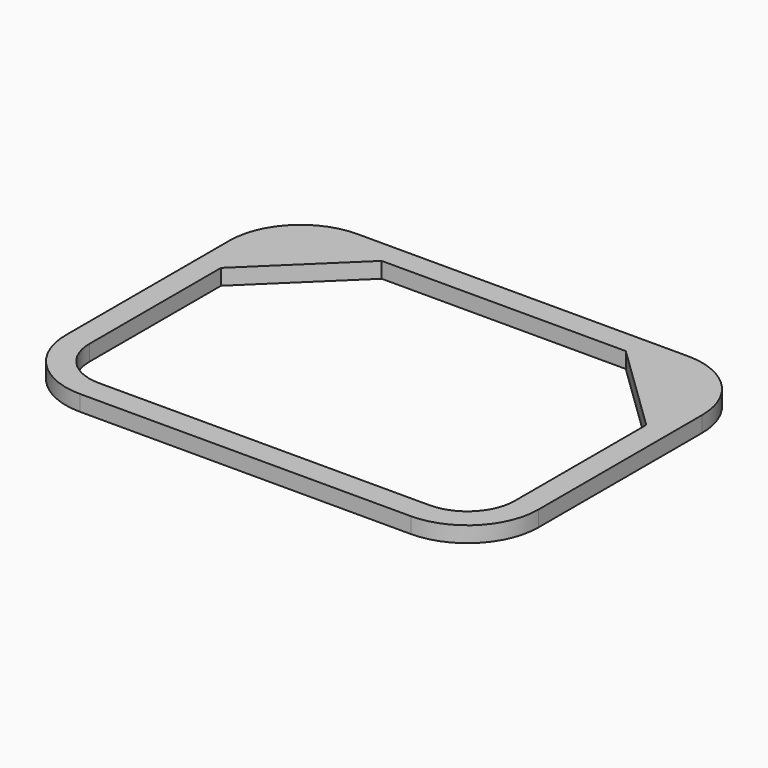
from build123d import *

# Parameters (mm, degrees)
F0_W     = 30
F0_H     = 22
F1_DEPTH = 1
F2_R     = 3
F3_R     = 4.5


with BuildPart() as f1:
    # F0 (on Top) → F1 (new body)
    with BuildSketch(Plane.XY):
        Rectangle(F0_W, F0_H)
        Polygon((7.75, 9.5), (13.5, 9.5), (13.5, 3.937851), (13.5, -9.5), (-13.5, -9.5), (-13.5, 3.937851), (-13.5, 9.5), (-7.75, 9.5), align=None, mode=Mode.SUBTRACT)
        Polygon((-13.5, 3.937851), (-7.75, 9.5), (-13.5, 9.5), align=None)
        Polygon((13.5, 3.937851), (13.5, 9.5), (7.75, 9.5), align=None)
    extrude(amount=F1_DEPTH)

    # F2
    f2_edges = [f1.edges().sort_by_distance(p)[0] for p in [
        (13.5, -9.5, 0.5),
        (-13.5, -9.5, 0.5),
    ]]
    fillet(f2_edges, radius=F2_R)

    # F3
    f3_edges = [f1.edges().sort_by_distance(p)[0] for p in [
        (15, -11, 0.5),
        (15, 11, 0.5),
        (-15, -11, 0.5),
        (-15, 11, 0.5),
    ]]
    fillet(f3_edges, radius=F3_R)


solid = f1.part
